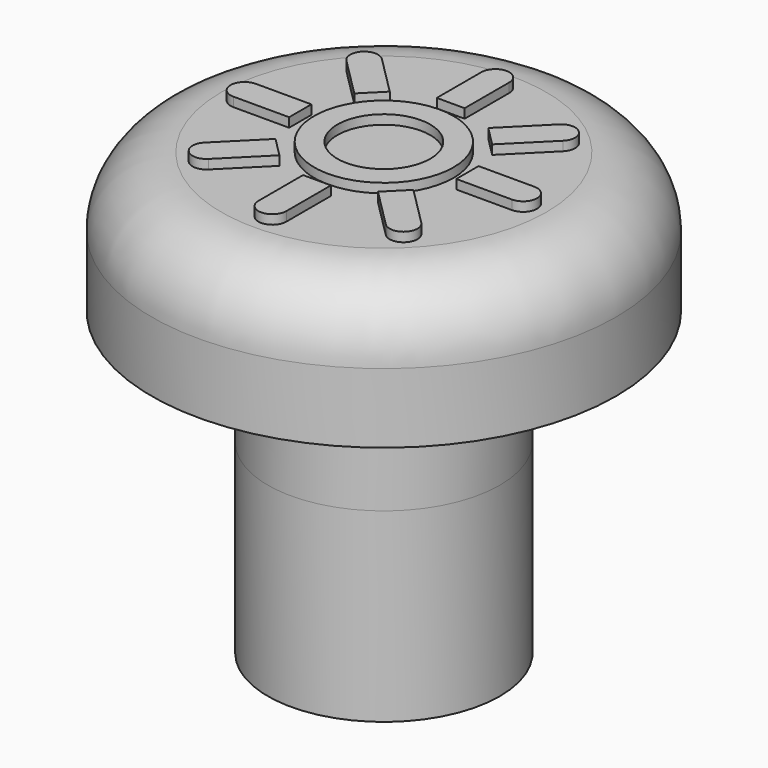
from build123d import *

# Parameters (mm, degrees)
SKETCH046_R        = 2.5
PAD023_DEPTH       = 2.5
SKETCH047_R        = 5
PAD024_DEPTH       = 3
FILLET003_R        = 1.5
SKETCH049_R        = 2.5
PAD025_DEPTH       = 4
SKETCH050_R        = 1.5
POCKET026_DEPTH    = 4
PAD053_DEPTH       = 0.2
SKETCH087_R        = 1.5
SKETCH087_R_2      = 1
PAD054_DEPTH       = 0.2
POLARPATTERN_COUNT = 8


with BuildPart() as part:
    # Sketch046 → Pad023 (new body)
    with BuildSketch(Plane(origin=(0, 0, 30), x_dir=(1, 0, 0), z_dir=(0, 0, -1))):
        with Locations((101, 55)):
            Circle(SKETCH046_R)
    extrude(amount=-PAD023_DEPTH)

    # Sketch047 (on Face3 of Pad023) → Pad024 (join)
    with BuildSketch(Plane.XY.offset(32.5)):
        with Locations((101, -55)):
            Circle(SKETCH047_R)
    extrude(amount=PAD024_DEPTH)

    # Fillet003
    fillet003_edges = [part.edges().sort_by_distance(p)[0] for p in [
        (96, -55, 35.5),
    ]]
    fillet(fillet003_edges, radius=FILLET003_R)

    # Sketch049 → Pad025 (join)
    with BuildSketch(Plane(origin=(0, 0, 30), x_dir=(1, 0, 0), z_dir=(0, 0, -1))):
        with Locations((101, 55)):
            Circle(SKETCH049_R)
    extrude(amount=PAD025_DEPTH)

    # Sketch050 (on Face17 of Pad025) → Pocket026 (cut)
    with BuildSketch(Plane(origin=(0, 0, 26), x_dir=(1, 0, 0), z_dir=(0, 0, -1))):
        with Locations((101, 55)):
            Circle(SKETCH050_R)
    extrude(amount=-POCKET026_DEPTH, mode=Mode.SUBTRACT)


with BuildPart() as part_1:
    # Body002 placement: moved
    add(part.part.moved(Location((75, 0, 0))))

    # Sketch086 (on Face4 of Clone001) → Pad053 (new body)
    with BuildSketch(Plane(origin=(176, -55, 35.5), x_dir=(1, 0, 0), z_dir=(0, 0, 1))):
        with BuildLine():
            Line((1.8, 0.3), (1.8, -0.3))
            Line((1.8, -0.3), (3, -0.3))
            ThreePointArc((3, -0.3), (3.3, 0), (3, 0.3))
            Line((1.8, 0.3), (3, 0.3))
        make_face()
    pad053 = extrude(amount=PAD053_DEPTH)

    # Sketch087 (on Face4 of Clone001) → Pad054 (join)
    with BuildSketch(Plane(origin=(176, -55, 35.5), x_dir=(1, 0, 0), z_dir=(0, 0, 1))):
        Circle(SKETCH087_R)
        Circle(SKETCH087_R_2, mode=Mode.SUBTRACT)
    extrude(amount=PAD054_DEPTH)

    # PolarPattern: Pad053 ×8 about axis
    polarpattern_axis = Axis((176, -55, 35.5), (0, 0, 1))
    for i in range(1, POLARPATTERN_COUNT):
        add(pad053.rotate(polarpattern_axis, i * 360 / POLARPATTERN_COUNT))


with BuildPart() as part_2:
    # Body011 placement: moved
    add(part_1.part.moved(Location((-89, 0, 0))))


solid = part_2.part
